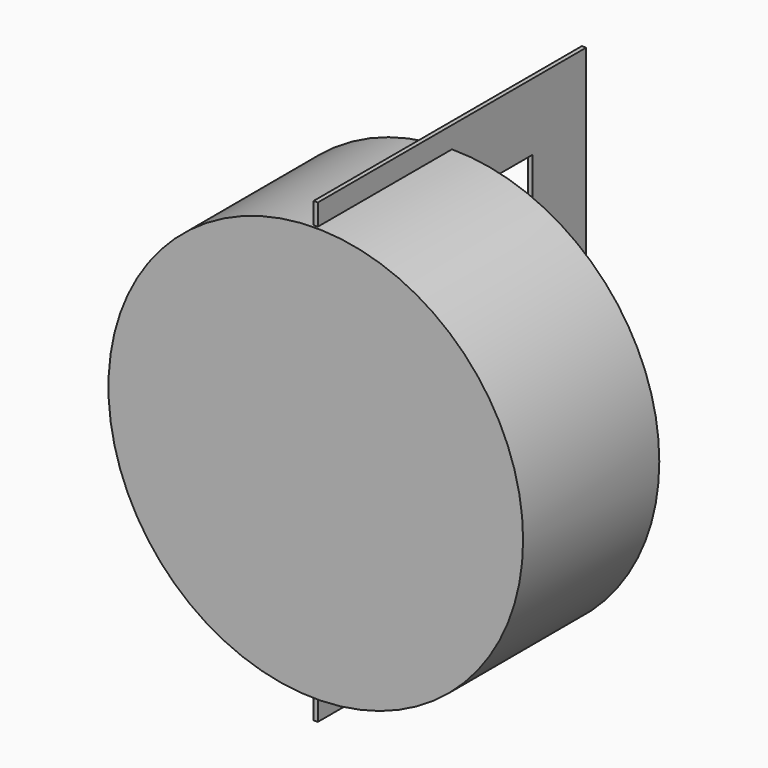
from build123d import *

# Parameters (mm, degrees)
F0_W     = 279.4
F0_H     = 381
F1_DEPTH = 3.556
F2_W     = 167.639992
F2_H     = 269.239992
F3_DEPTH = 56.388
F4_R     = 172.737905
F5_DEPTH = 141.843393


with BuildPart() as f1:
    # F0 (on Right) → F1 (new body)
    with BuildSketch(Plane.YZ):
        Rectangle(F0_W, F0_H)
    extrude(amount=-F1_DEPTH)

    # F2 (on face) → F3 (cut)
    with BuildSketch(Plane(origin=(-3.556, 0, 0), x_dir=(0, -1, 0), z_dir=(-1, 0, 0))):
        Rectangle(F2_W, F2_H)
    extrude(amount=-F3_DEPTH, mode=Mode.SUBTRACT)

    # F4 (on Front) → F5 (join)
    with BuildSketch(Plane.XZ):
        Circle(F4_R)
    extrude(amount=F5_DEPTH)


solid = f1.part
